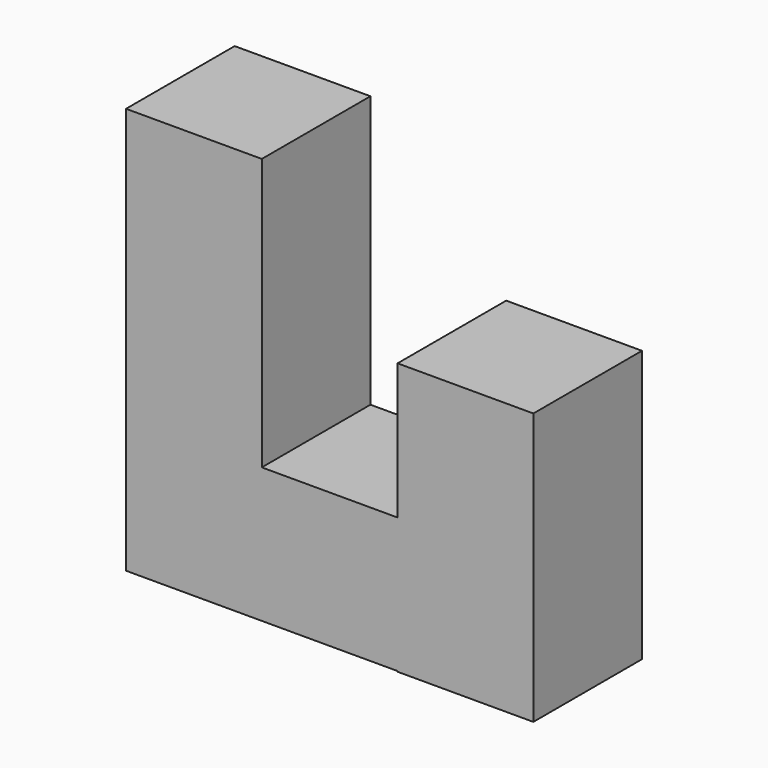
from build123d import *

# Parameters (mm, degrees)
F0_W     = 25.4
F0_H     = 25.4
F0_H_2   = 25.282406
F1_DEPTH = 25.4


with BuildPart() as f1:
    # F0 (on Front) → F1 (new body)
    with BuildSketch(Plane.XZ):
        with Locations((-38.1, 38.1)):
            Rectangle(F0_W, F0_H)
        with Locations((-38.1, 12.7)):
            Rectangle(F0_W, F0_H)
        with Locations((-38.1, -12.641203)):
            Rectangle(F0_W, F0_H_2)
        with Locations((-12.7, -12.641203)):
            Rectangle(F0_W, F0_H_2)
        Polygon((25.4, 0), (0, 0), (0, -25.282406), (0, -25.4), (25.4, -25.4), align=None)
        with Locations((12.7, 12.7)):
            Rectangle(F0_W, F0_H)
    extrude(amount=F1_DEPTH)


solid = f1.part
